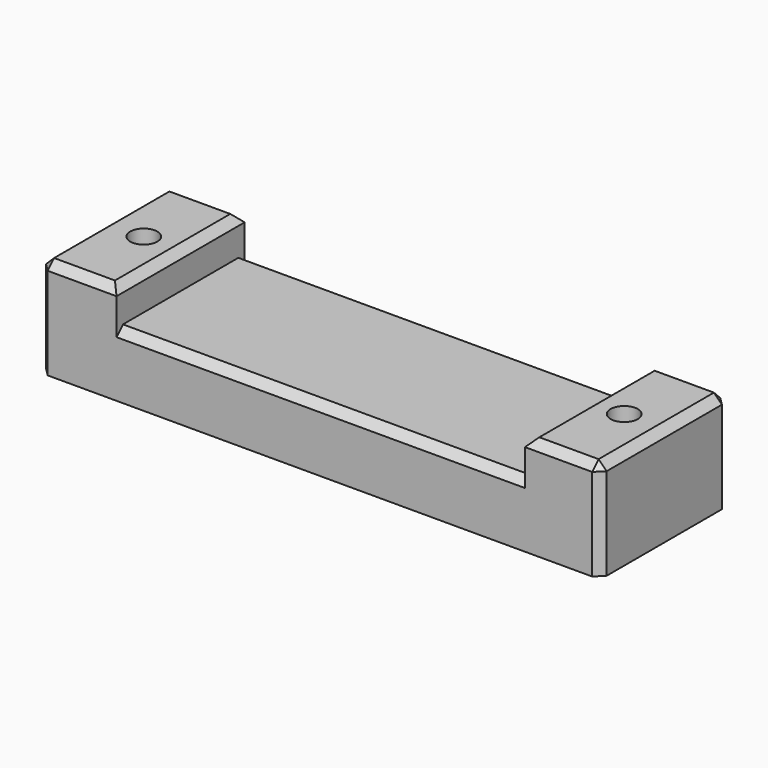
from build123d import *

# Parameters (mm, degrees)
SKETCH023_W     = 70
SKETCH023_H     = 20
PAD012_DEPTH    = 8
SKETCH024_W     = 9.6
SKETCH024_H     = 20
SKETCH024_W_2   = 9.4
PAD013_DEPTH    = 12.5
SKETCH025_R     = 1.7
HOLE003_DEPTH   = 25
POCKET002_DEPTH = 5
CHAMFER004_SIZE = 1


with BuildPart() as part:
    # Sketch023 → Pad012 (new body)
    with BuildSketch(Plane.XY):
        with Locations((0, -110)):
            Rectangle(SKETCH023_W, SKETCH023_H)
    extrude(amount=-PAD012_DEPTH)

    # Sketch024 → Pad013 (join)
    with BuildSketch(Plane.XY.offset(-8)):
        with Locations((-30.2, -110)):
            Rectangle(SKETCH024_W, SKETCH024_H)
        with Locations((30.3, -110)):
            Rectangle(SKETCH024_W_2, SKETCH024_H)
    extrude(amount=PAD013_DEPTH)

    # Sketch025 → Hole003 (cut)
    with BuildSketch(Plane.XY.offset(5)):
        with Locations((-30, -110)):
            Circle(SKETCH025_R)
        with Locations((30, -110)):
            Circle(SKETCH025_R)
    extrude(amount=-HOLE003_DEPTH, mode=Mode.SUBTRACT)

    # Sketch026 → Pocket002 (cut)
    with BuildSketch(Plane.XY.offset(-8)):
        Polygon((-28.412287, -112.75), (-26.824574, -110), (-28.412287, -107.25), (-31.587713, -107.25), (-33.175426, -110), (-31.587713, -112.75), align=None)
        Polygon((31.587713, -112.75), (33.175426, -110), (31.587713, -107.25), (28.412287, -107.25), (26.824574, -110), (28.412287, -112.75), align=None)
    extrude(amount=POCKET002_DEPTH, mode=Mode.SUBTRACT)

    # Chamfer004
    chamfer004_edges = [part.edges().sort_by_distance(p)[0] for p in [
        (-25.4, -110, 4.5),
        (25.6, -110, 4.5),
        (-30.2, -100, 4.5),
        (-35, -110, 4.5),
        (30.3, -100, 4.5),
        (35, -110, 4.5),
        (-30.2, -120, 4.5),
        (30.3, -120, 4.5),
        (0.1, -120, 0),
        (0.1, -100, 0),
        (-35, -120, -4),
        (-35, -100, -4),
        (35, -120, -4),
        (35, -100, -4),
    ]]
    chamfer(chamfer004_edges, length=CHAMFER004_SIZE)


with BuildPart() as part_1:
    # Body003 placement: moved
    add(part.part.moved(Location((0, -25, 0))))


solid = part_1.part
